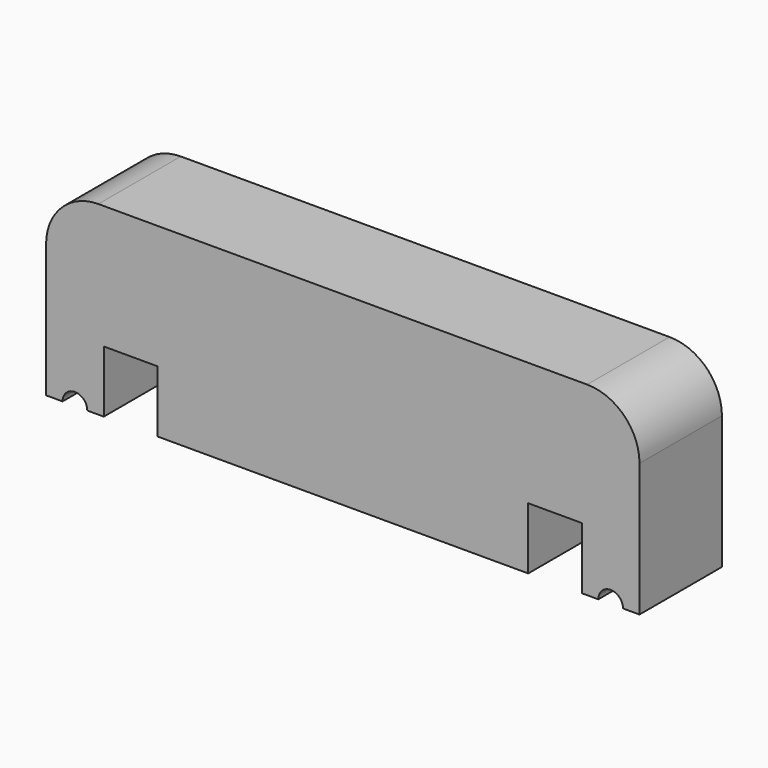
from build123d import *

# Parameters (mm, degrees)
F1_DEPTH = 25


with BuildPart() as f1:
    # F0 (on Front) → F1 (new body)
    with BuildSketch(Plane.XZ):
        with BuildLine():
            ThreePointArc((72, 9.8), (68.280256, 18.780256), (59.3, 22.5))
            Line((59.3, 22.5), (-59.3, 22.5))
            ThreePointArc((-59.3, 22.5), (-68.280256, 18.780256), (-72, 9.8))
            Line((-72, 9.8), (-72, -22.5))
            Line((-72, -22.5), (-68, -22.5))
            ThreePointArc((-68, -22.5), (-65, -19.5), (-62, -22.5))
            Line((-62, -22.5), (-58, -22.5))
            Line((-58, -22.5), (-58, -7.5))
            Line((-58, -7.5), (-45, -7.5))
            Line((-45, -7.5), (-45, -22.5))
            Line((-45, -22.5), (45, -22.5))
            Line((45, -22.5), (45, -7.5))
            Line((45, -7.5), (58, -7.5))
            Line((58, -7.5), (58, -22.5))
            Line((58, -22.5), (62, -22.5))
            ThreePointArc((62, -22.5), (65, -19.5), (68, -22.5))
            Line((68, -22.5), (72, -22.5))
            Line((72, -22.5), (72, 9.8))
        make_face()
    extrude(amount=F1_DEPTH)


solid = f1.part
